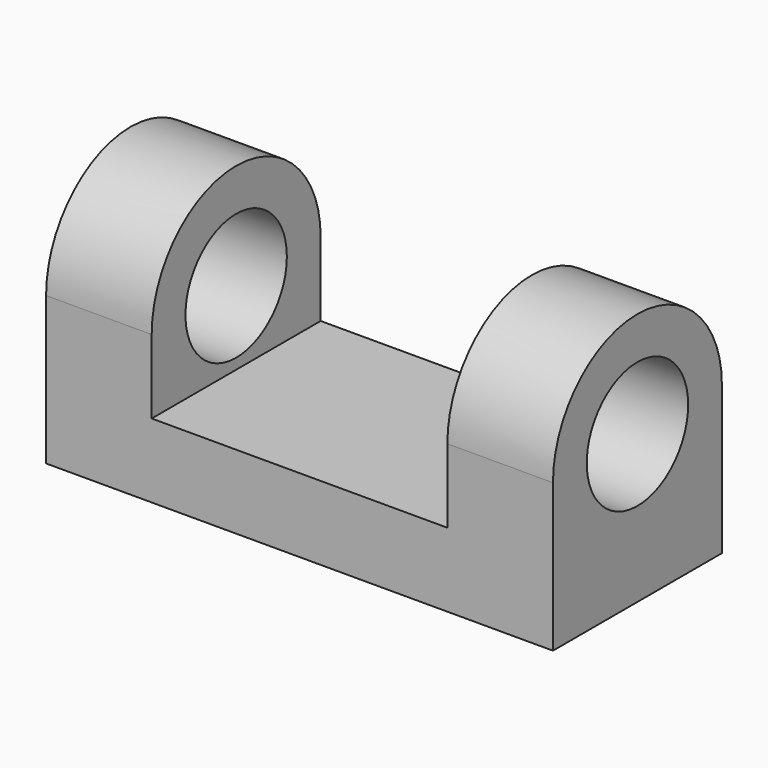
from build123d import *

# Parameters (mm, degrees)
F1_DEPTH = 240
F2_R     = 30
F3_DEPTH = 240
F5_W     = 140
F5_H     = 100
F6_DEPTH = 85.001


with BuildPart() as f1:
    # F0 (on Right) → F1 (new body)
    with BuildSketch(Plane.YZ):
        with BuildLine():
            Line((0, 70), (0, 0))
            Line((0, 0), (100, 0))
            Line((100, 0), (100, 70))
            ThreePointArc((100, 70), (50, 120), (0, 70))
        make_face()
    extrude(amount=F1_DEPTH)

    # F2 (on face) → F3 (cut, through all)
    with BuildSketch(Plane.YZ.offset(240)):
        with Locations((50, 70)):
            Circle(F2_R)
    extrude(amount=-F3_DEPTH, mode=Mode.SUBTRACT)

    # F5 (on offset) → F6 (cut, through all)
    with BuildSketch(Plane(origin=(0, 0, 35), x_dir=(1, 0, 0), z_dir=(0, 0, -1))):
        with Locations((120, -50)):
            Rectangle(F5_W, F5_H)
    extrude(amount=-F6_DEPTH, mode=Mode.SUBTRACT)


solid = f1.part
